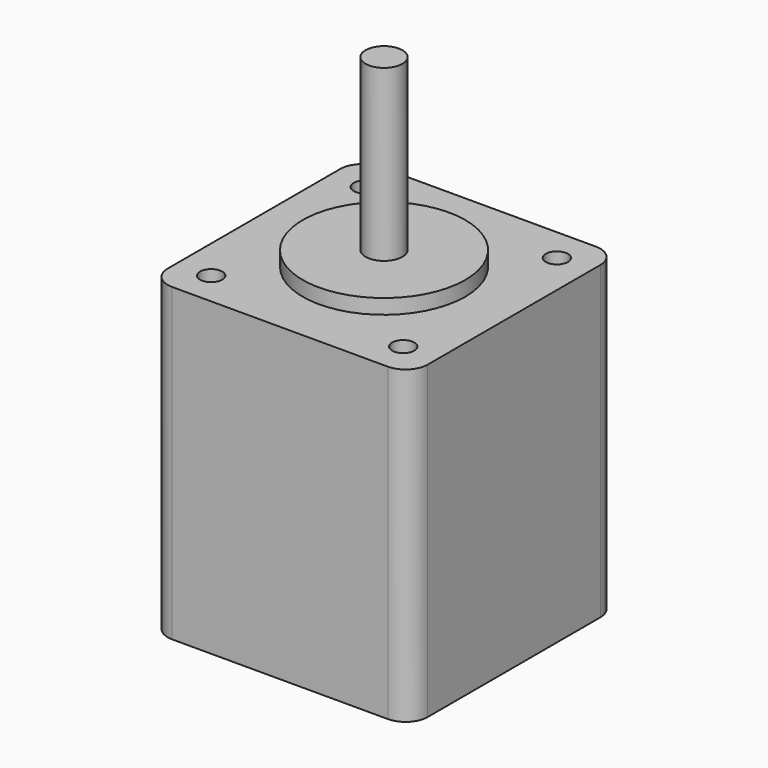
from build123d import *

# Parameters (mm, degrees)
F0_W     = 35.2
F0_H     = 35.2
F0_W_2   = 26
F0_H_2   = 26
F0_R     = 11
F0_R_2   = 2.5
F1_DEPTH = 42
F2_DEPTH = 2
F3_DEPTH = 25
F4_R     = 3
F5_D     = 3
F5_DEPTH = 5
F5_TIP   = 0.9012909285


with BuildPart() as f1:
    # F0 (on Top) → F1 (new body)
    with BuildSketch(Plane.XY):
        Rectangle(F0_W, F0_H)
        Rectangle(F0_W_2, F0_H_2, mode=Mode.SUBTRACT)
        Rectangle(F0_W_2, F0_H_2)
        Circle(F0_R, mode=Mode.SUBTRACT)
        Circle(F0_R)
        Circle(F0_R_2, mode=Mode.SUBTRACT)
        Circle(F0_R_2)
    extrude(amount=-F1_DEPTH)

    # F0 (on Top) → F2 (join)
    with BuildSketch(Plane.XY):
        Circle(F0_R)
        Circle(F0_R_2, mode=Mode.SUBTRACT)
    extrude(amount=F2_DEPTH)

    # F0 (on Top) → F3 (join)
    with BuildSketch(Plane.XY):
        Circle(F0_R_2)
    extrude(amount=F3_DEPTH)

    # F4
    f4_edges = [f1.edges().sort_by_distance(p)[0] for p in [
        (17.6, 17.6, -21),
        (17.6, -17.6, -21),
        (-17.6, -17.6, -21),
        (-17.6, 17.6, -21),
    ]]
    fillet(f4_edges, radius=F4_R)

    # F5
    with Locations(Plane.XY):
        with Locations((-13, 13), (13, 13), (13, -13), (-13, -13)):
            Hole(F5_D / 2, depth=F5_DEPTH)
            with Locations((0, 0, -(F5_DEPTH + F5_TIP / 2))):  # 118° drill point
                Cone(0, F5_D / 2, F5_TIP, mode=Mode.SUBTRACT)


solid = f1.part
